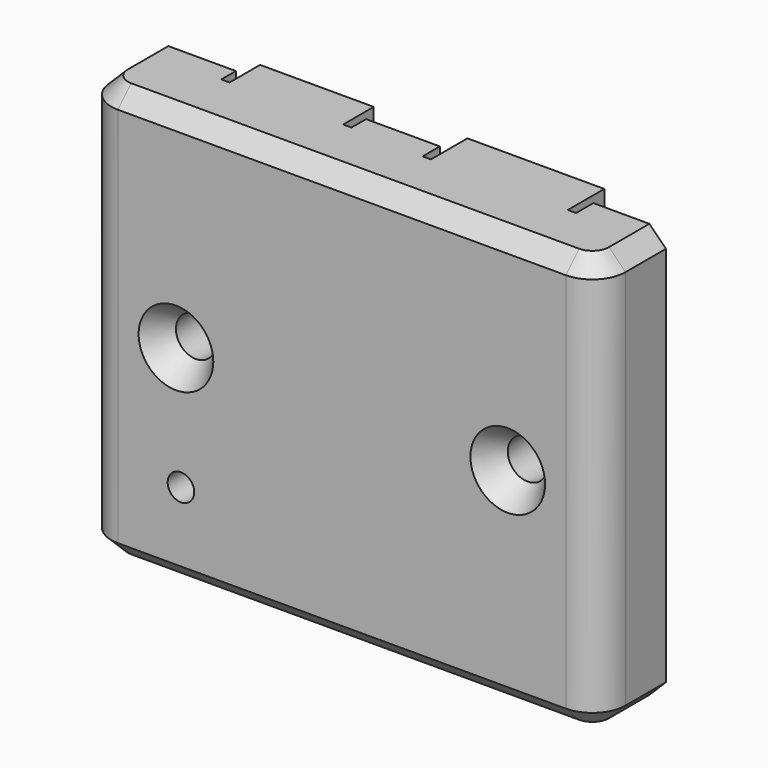
from build123d import *

# Parameters (mm, degrees)
FACE004_W          = 8.25
FACE004_H          = 1
EXTRUSION003_DEPTH = 0.2
FACE005_W          = 6.85
FACE005_H          = 1
EXTRUSION004_DEPTH = 0.2
BOX008_W           = 8.25
BOX008_H           = 2.55
BOX008_DEPTH       = 1
BOX009_W           = 6.85
BOX009_H           = 2.1
BOX009_DEPTH       = 1
BOX007_W           = 7.85
BOX007_H           = 2.1
BOX007_DEPTH       = 10
BOX006_W           = 9.25
BOX006_H           = 2.55
BOX006_DEPTH       = 10
BOX003_W           = 27
BOX003_H           = 1.5
BOX003_DEPTH       = 21
BOX002_W           = 29
BOX002_H           = 1.5
BOX002_DEPTH       = 23
CYLINDER004_R      = 0.8
CYLINDER004_DEPTH  = 20.6
CYLINDER002_R      = 1.2
CYLINDER002_DEPTH  = 10.6
CYLINDER001_R      = 1.2
CYLINDER001_DEPTH  = 10.6
CYLINDER003_R      = 2.2
CYLINDER003_DEPTH  = 2.6
BOX001_W           = 27
BOX001_H           = 2.6
BOX001_DEPTH       = 21
BOX_W              = 31
BOX_H              = 4.6
BOX_DEPTH          = 25
CYLINDER_R         = 2.2
CYLINDER_DEPTH     = 2.6
CYLINDER005_R      = 1.5
CYLINDER005_DEPTH  = 2.6
BOX005_W           = 29
BOX005_H           = 0.45
BOX005_DEPTH       = 23
BOX004_W           = 31
BOX004_H           = 0.45
BOX004_DEPTH       = 25
FILLET_R           = 2
CHAMFER_SIZE       = 1
FACE001_R          = 2.2
FACE001_R_2        = 1.2
EXTRUSION001_DEPTH = 0.2
FACE003_R          = 1.5
FACE003_R_2        = 0.8
EXTRUSION002_DEPTH = 0.2
FACE_R             = 2.2
FACE_R_2           = 1.2
EXTRUSION_DEPTH    = 0.2


with BuildPart() as extrusion003:
    # Face004 → Extrusion003 (new body)
    with BuildSketch(Plane(origin=(21.995, 6.3, 24.5), x_dir=(1, 0, 0), z_dir=(0, 1, 0))):
        Rectangle(FACE004_W, FACE004_H)
    extrude(amount=EXTRUSION003_DEPTH)


with BuildPart() as extrusion004:
    # Face005 → Extrusion004 (new body)
    with BuildSketch(Plane(origin=(8.995, 6.05, 24.5), x_dir=(1, 0, 0), z_dir=(0, 1, 0))):
        Rectangle(FACE005_W, FACE005_H)
    extrude(amount=EXTRUSION004_DEPTH)


with BuildPart() as obj1:
    # Box008 → Box008 (new body)
    with BuildSketch(Plane(origin=(17.87, 3.75, 24), x_dir=(1, 0, 0), z_dir=(0, 0, 1))):
        with Locations((4.125, 1.275)):
            Rectangle(BOX008_W, BOX008_H)
    extrude(amount=BOX008_DEPTH)


with BuildPart() as micro_cutoff:
    # Box009 → Box009 (new body)
    with BuildSketch(Plane(origin=(5.57, 3.95, 24), x_dir=(1, 0, 0), z_dir=(0, 0, 1))):
        with Locations((3.425, 1.05)):
            Rectangle(BOX009_W, BOX009_H)
    extrude(amount=BOX009_DEPTH)


with BuildPart() as countersunkleft:
    # Cone → Cone (revolve)
    with BuildSketch(Plane(origin=(5.5, 0, 12.5), x_dir=(1, 0, 0), z_dir=(0, 0, 1))):
        Polygon((0, 0), (2.25, 0), (1.2, 1.5), (0, 1.5), align=None)
    revolve(axis=Axis((5.5, 0, 12.5), (0, 1, 0)))


with BuildPart() as countersunk:
    # Cone001 → Cone001 (revolve)
    with BuildSketch(Plane(origin=(25.5, 0, 12.5), x_dir=(1, 0, 0), z_dir=(0, 0, 1))):
        Polygon((0, 0), (2.25, 0), (1.2, 1.5), (0, 1.5), align=None)
    revolve(axis=Axis((25.5, 0, 12.5), (0, 1, 0)))

    # Fusion005: union counterSunkLeft
    add(countersunkleft.part)


with BuildPart() as micro_cutout:
    # Box007 → Box007 (new body)
    with BuildSketch(Plane(origin=(5.07, 3.95, 20), x_dir=(1, 0, 0), z_dir=(0, 0, 1))):
        with Locations((3.925, 1.05)):
            Rectangle(BOX007_W, BOX007_H)
    extrude(amount=BOX007_DEPTH)


with BuildPart() as connector_cutouts:
    # Box006 → Box006 (new body)
    with BuildSketch(Plane(origin=(17.37, 3.75, 19), x_dir=(1, 0, 0), z_dir=(0, 0, 1))):
        with Locations((4.625, 1.275)):
            Rectangle(BOX006_W, BOX006_H)
    extrude(amount=BOX006_DEPTH)

    # Fusion006: union Micro_cutout
    add(micro_cutout.part)


with BuildPart() as cube001:
    # Box003 → Box003 (new body)
    with BuildSketch(Plane(origin=(2, 3.1, 2), x_dir=(1, 0, 0), z_dir=(0, 0, 1))):
        with Locations((13.5, 0.75)):
            Rectangle(BOX003_W, BOX003_H)
    extrude(amount=BOX003_DEPTH)


with BuildPart() as cut004:
    # Box002 → Box002 (new body)
    with BuildSketch(Plane(origin=(1, 3.1, 1), x_dir=(1, 0, 0), z_dir=(0, 0, 1))):
        with Locations((14.5, 0.75)):
            Rectangle(BOX002_W, BOX002_H)
    extrude(amount=BOX002_DEPTH)

    # Cut004: cut Cube001
    add(cube001.part, mode=Mode.SUBTRACT)


with BuildPart() as obj2:
    # Cylinder004 → Cylinder004 (new body)
    with BuildSketch(Plane(origin=(5.8, 12, 5.2), x_dir=(1, 0, 0), z_dir=(0, -1, 0))):
        Circle(CYLINDER004_R)
    extrude(amount=CYLINDER004_DEPTH)


with BuildPart() as pcbholderhole001:
    # Cylinder002 → Cylinder002 (new body)
    with BuildSketch(Plane(origin=(5.5, 4.6, 12.5), x_dir=(1, 0, 0), z_dir=(0, -1, 0))):
        Circle(CYLINDER002_R)
    extrude(amount=CYLINDER002_DEPTH)


with BuildPart() as pcbholes:
    # Cylinder001 → Cylinder001 (new body)
    with BuildSketch(Plane(origin=(25.5, 4.6, 12.5), x_dir=(1, 0, 0), z_dir=(0, -1, 0))):
        Circle(CYLINDER001_R)
    extrude(amount=CYLINDER001_DEPTH)

    # Fusion001: union pcbHolderHole001
    add(pcbholderhole001.part)


with BuildPart() as pcbholder001:
    # Cylinder003 → Cylinder003 (new body)
    with BuildSketch(Plane(origin=(5.5, 4.6, 12.5), x_dir=(1, 0, 0), z_dir=(0, -1, 0))):
        Circle(CYLINDER003_R)
    extrude(amount=CYLINDER003_DEPTH)


with BuildPart() as innercut:
    # Box001 → Box001 (new body)
    with BuildSketch(Plane(origin=(2, 2, 2), x_dir=(1, 0, 0), z_dir=(0, 0, 1))):
        with Locations((13.5, 1.3)):
            Rectangle(BOX001_W, BOX001_H)
    extrude(amount=BOX001_DEPTH)


with BuildPart() as cut:
    # Box → Box (new body)
    with BuildSketch(Plane.XY):
        with Locations((15.5, 2.3)):
            Rectangle(BOX_W, BOX_H)
    extrude(amount=BOX_DEPTH)

    # Cut: cut innerCut
    add(innercut.part, mode=Mode.SUBTRACT)


with BuildPart() as obj3:
    # Cylinder → Cylinder (new body)
    with BuildSketch(Plane(origin=(25.5, 4.6, 12.5), x_dir=(1, 0, 0), z_dir=(0, -1, 0))):
        Circle(CYLINDER_R)
    extrude(amount=CYLINDER_DEPTH)

    # Fusion: union pcbHolder001, Cut
    add(pcbholder001.part)
    add(cut.part)

    # Cut001: cut pcbHoles
    add(pcbholes.part, mode=Mode.SUBTRACT)


with BuildPart() as cut009:
    # Cylinder005 → Cylinder005 (new body)
    with BuildSketch(Plane(origin=(5.8, 4.6, 5.2), x_dir=(1, 0, 0), z_dir=(0, -1, 0))):
        Circle(CYLINDER005_R)
    extrude(amount=CYLINDER005_DEPTH)

    # Fusion002: union obj3
    add(obj3.part)

    # Cut002: cut obj2
    add(obj2.part, mode=Mode.SUBTRACT)

    # Cut009: cut Cut004
    add(cut004.part, mode=Mode.SUBTRACT)


with BuildPart() as cube003:
    # Box005 → Box005 (new body)
    with BuildSketch(Plane(origin=(1, 4.6, 1), x_dir=(1, 0, 0), z_dir=(0, 0, 1))):
        with Locations((14.5, 0.225)):
            Rectangle(BOX005_W, BOX005_H)
    extrude(amount=BOX005_DEPTH)


with BuildPart() as chamfer_body:
    # Box004 → Box004 (new body)
    with BuildSketch(Plane(origin=(0, 4.6, 0), x_dir=(1, 0, 0), z_dir=(0, 0, 1))):
        with Locations((15.5, 0.225)):
            Rectangle(BOX004_W, BOX004_H)
    extrude(amount=BOX004_DEPTH)

    # Cut006: cut Cube003
    add(cube003.part, mode=Mode.SUBTRACT)

    # Fusion004: union Cut009
    add(cut009.part)

    # Cut010: cut connector_cutouts
    add(connector_cutouts.part, mode=Mode.SUBTRACT)

    # Cut011: cut counterSunk
    add(countersunk.part, mode=Mode.SUBTRACT)

    # Fusion007: union obj1, Micro_cutoff
    add(obj1.part)
    add(micro_cutoff.part)

    # Fillet
    fillet_edges = [chamfer_body.edges().sort_by_distance(p)[0] for p in [
        (0, 0, 12.5),
        (31, 0, 12.5),
    ]]
    fillet(fillet_edges, radius=FILLET_R)

    # Chamfer
    chamfer_edges = [chamfer_body.edges().sort_by_distance(p)[0] for p in [
        (0, 3.3, 25),
        (0, 3.3, 0),
        (0.585786, 0.585786, 25),
        (15.5, 0, 25),
        (30.414214, 0.585786, 25),
        (31, 3.3, 25),
        (0.585786, 0.585786, 0),
        (0, 4.825, 25),
        (0, 4.825, 0),
        (15.5, 0, 0),
        (31, 3.3, 0),
        (30.414214, 0.585786, 0),
        (31, 4.825, 25),
        (31, 4.825, 0),
    ]]
    chamfer(chamfer_edges, length=CHAMFER_SIZE)


with BuildPart() as extrusion001:
    # Face001 → Extrusion001 (new body)
    with BuildSketch(Plane(origin=(5.5, 4.6, 12.5), x_dir=(1, 0, 0), z_dir=(0, 1, 0))):
        Circle(FACE001_R)
        Circle(FACE001_R_2, mode=Mode.SUBTRACT)
    extrude(amount=EXTRUSION001_DEPTH)


with BuildPart() as extrusion002:
    # Face003 → Extrusion002 (new body)
    with BuildSketch(Plane(origin=(5.8, 4.6, 5.2), x_dir=(1, 0, 0), z_dir=(0, 1, 0))):
        Circle(FACE003_R)
        Circle(FACE003_R_2, mode=Mode.SUBTRACT)
    extrude(amount=EXTRUSION002_DEPTH)


with BuildPart() as fusion010:
    # Face → Extrusion (new body)
    with BuildSketch(Plane(origin=(25.5, 4.6, 12.5), x_dir=(1, 0, 0), z_dir=(0, 1, 0))):
        Circle(FACE_R)
        Circle(FACE_R_2, mode=Mode.SUBTRACT)
    extrude(amount=EXTRUSION_DEPTH)

    # Fusion008: union Extrusion001, Extrusion002
    add(extrusion001.part)
    add(extrusion002.part)

    # Fusion009: union Chamfer body
    add(chamfer_body.part)

    # Fusion010: union Extrusion003, Extrusion004
    add(extrusion003.part)
    add(extrusion004.part)


solid = fusion010.part
